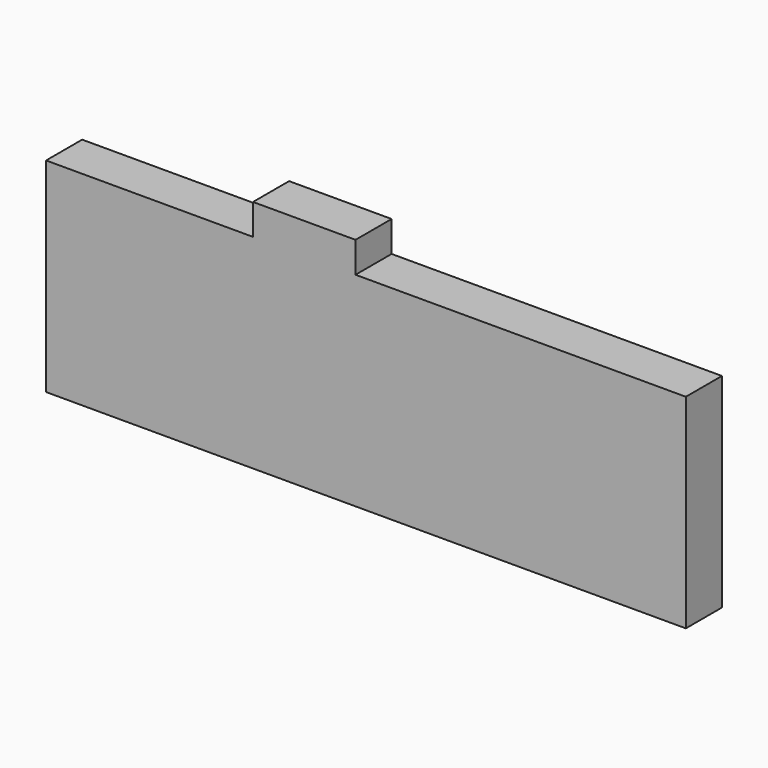
from build123d import *

# Parameters (mm, degrees)
F1_DEPTH = 2
F2_W     = 312
F2_H     = 99.44
F3_DEPTH = 20
F4_W     = 50
F4_H     = 15
F5_DEPTH = 22


with BuildPart() as f1:
    # F0 (on Front) → F1 (new body)
    with BuildSketch(Plane.XZ):
        Polygon((0, 106.68), (0, 0), (20.08, 0), (20.08, 7.24), (50.296851, 7.24), (50.296851, 0), (61.29, 0), (61.29, 7.24), (63.144, 7.24), (63.144, 0), (125.914, 0), (125.914, 7.24), (312, 7.24), (312, 106.68), align=None)
    extrude(amount=F1_DEPTH)

    # F2 (on face) → F3 (join)
    with BuildSketch(Plane.XZ.offset(2)):
        with Locations((156, 56.96)):
            Rectangle(F2_W, F2_H)
    extrude(amount=F3_DEPTH)

    # F4 (on face) → F5 (join)
    with BuildSketch(Plane(origin=(0, 0, 0), x_dir=(-1, 0, 0), z_dir=(0, 1, 0))):
        with Locations((-125.914, 114.18)):
            Rectangle(F4_W, F4_H)
    extrude(amount=-F5_DEPTH)


solid = f1.part
